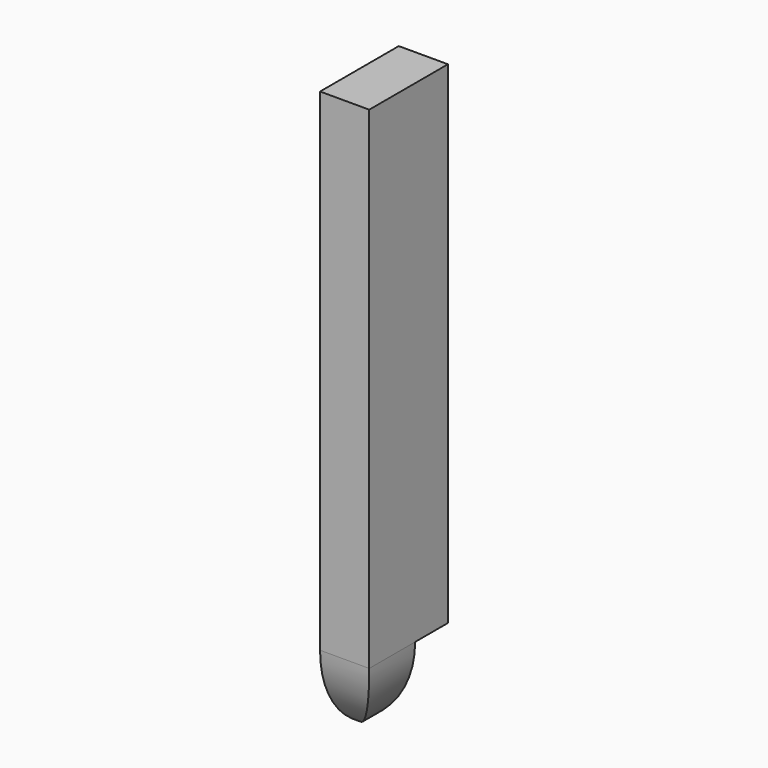
from build123d import *

# Parameters (mm, degrees)
F1_DEPTH = 7.62
F3_DEPTH = 25.4


with BuildPart() as f1:
    # F0 (on Right) → F1 (new body)
    with BuildSketch(Plane.YZ):
        Polygon((-33.541034, 60.960074), (-48.781034, 60.960074), (-48.781034, -15.239926), (-42.431034, -15.239926), (-39.891034, -15.239926), (-33.541034, -15.239926), align=None)
        with BuildLine():
            Line((-42.431034, -15.239926), (-48.781034, -15.239926))
            ThreePointArc((-48.781034, -15.239926), (-46.729882, -22.645235), (-41.161034, -27.939926))
            ThreePointArc((-41.161034, -27.939926), (-40.516197, -27.574381), (-39.891034, -27.176124))
            Line((-39.891034, -27.176124), (-39.891034, -15.239926))
            Line((-39.891034, -15.239926), (-42.431034, -15.239926))
        make_face()
    extrude(amount=F1_DEPTH)

    # F2 (on face) → F3 (cut)
    with BuildSketch(Plane(origin=(0, -33.541034, 0), x_dir=(-1, 0, 0), z_dir=(0, 1, 0))):
        with BuildLine():
            ThreePointArc((0, -27.939926), (-5.568848, -22.645235), (-7.62, -15.239926))
            Line((-7.62, -15.239926), (-7.62, -27.939926))
            Line((-7.62, -27.939926), (0, -27.939926))
        make_face()
    extrude(amount=-F3_DEPTH, mode=Mode.SUBTRACT)


solid = f1.part
